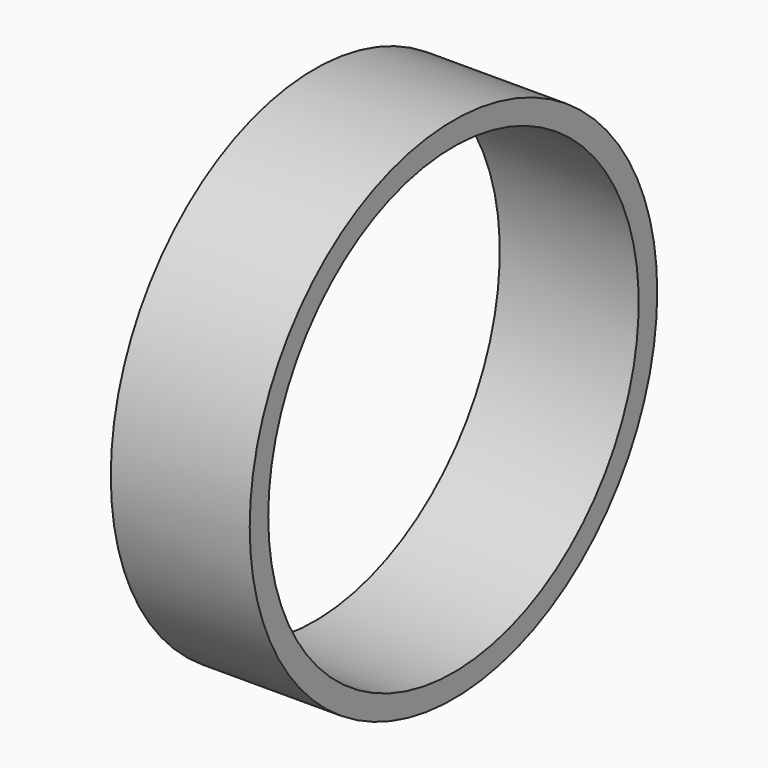
from build123d import *

# Parameters (mm, degrees)
SKETCH035_R   = 11
SKETCH035_R_2 = 10
PAD013_DEPTH  = 6


with BuildPart() as bearing_outer_front_left:
    # Sketch035 → Pad013 (new body)
    with BuildSketch(Plane.YZ):
        Circle(SKETCH035_R)
        Circle(SKETCH035_R_2, mode=Mode.SUBTRACT)
    extrude(amount=PAD013_DEPTH)


with BuildPart() as bearing_outer_front_left_1:
    # Body007 placement: moved
    add(bearing_outer_front_left.part.moved(Location((6, -51, -44))))


with BuildPart() as bearing_outer_back_left:
    # Part__Mirroring003: instance of bearing-outer-front-left
    add(bearing_outer_front_left_1.part.mirror(Plane(origin=(9, -4e-06, -44.000004), x_dir=(1, 0, 0), z_dir=(0, 1, 0))))


with BuildPart() as bearing_outer_back_right:
    # Part__Mirroring004: instance of bearing-outer-back-left
    add(bearing_outer_back_left.part.mirror(Plane(origin=(-4e-06, 51, -44.000004), x_dir=(0, -1, 0), z_dir=(1, 0, 0))))


solid = bearing_outer_back_right.part
